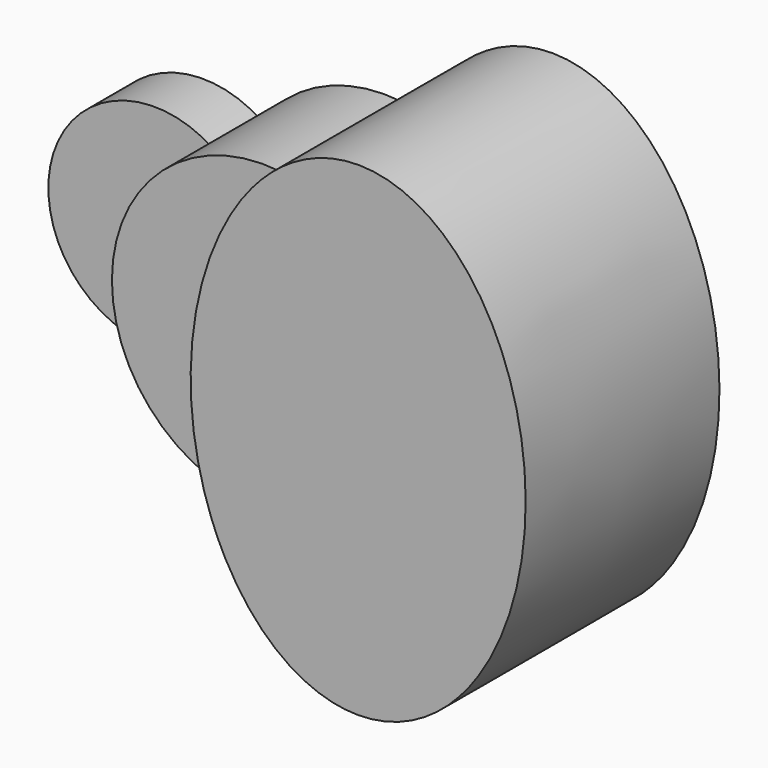
from build123d import *

# Parameters (mm, degrees)
F1_DEPTH = 25.4
F2_DEPTH = 63.5
F3_DEPTH = 101.6


with BuildPart() as f1:
    # F0 (on Front) → F1 (new body)
    with BuildSketch(Plane.XZ):
        with BuildLine():
            ThreePointArc((-51.59375, -37.0180356169), (-63.5, 0), (-51.59375, 37.0180356169))
            ThreePointArc((-51.59375, 37.0180356169), (-120.65, 0), (-51.59375, -37.0180356169))
        make_face()
    extrude(amount=F1_DEPTH)

    # F0 (on Front) → F2 (join)
    with BuildSketch(Plane.XZ):
        with BuildLine():
            ThreePointArc((-51.59375, -37.0180356169), (-37.0237934934, -21.0006510316), (-31.75, 0))
            ThreePointArc((-31.75, 0), (-37.0237934934, 21.0006510316), (-51.59375, 37.0180356169))
            ThreePointArc((-51.59375, 37.0180356169), (-63.5, 0), (-51.59375, -37.0180356169))
        make_face()
        with BuildLine():
            ThreePointArc((-51.59375, 37.0180356169), (-37.0237934934, 21.0006510316), (-31.75, 0))
            ThreePointArc((-31.75, 0), (-37.0237934934, -21.0006510316), (-51.59375, -37.0180356169))
            ThreePointArc((-51.59375, -37.0180356169), (-22.310398395, -59.451628434), (14.5021394114, -61.8218242411))
            add(Edge.make_bspline(
                [(0, 0), (0, -34.4686397294), (14.5021394114, -61.8218242411)],
                knots=[4.7123889804, 4.7123889804, 4.7123889804, 5.3665359428, 5.3665359428, 5.3665359428], degree=2, weights=[1, 0.946986609, 1]))
            add(Edge.make_bspline(
                [(14.5021394114, 61.8218242411), (0, 34.4686397294), (0, 0)],
                knots=[4.058242018, 4.058242018, 4.058242018, 4.7123889804, 4.7123889804, 4.7123889804], degree=2, weights=[1, 0.946986609, 1]))
            ThreePointArc((14.5021394114, 61.8218242411), (-22.310398395, 59.451628434), (-51.59375, 37.0180356169))
        make_face()
    extrude(amount=F2_DEPTH)


with BuildPart() as f3:
    # F0 (on Front) → F3 (new body)
    with BuildSketch(Plane.XZ):
        with BuildLine():
            ThreePointArc((63.5, 0), (49.7651276127, 39.4421357648), (14.5021394114, 61.8218242411))
            add(Edge.make_bspline(
                [(14.5021394114, 61.8218242411), (0, 34.4686397294), (0, 0)],
                knots=[4.058242018, 4.058242018, 4.058242018, 4.7123889804, 4.7123889804, 4.7123889804], degree=2, weights=[1, 0.946986609, 1]))
            add(Edge.make_bspline(
                [(0, 0), (0, -34.4686397294), (14.5021394114, -61.8218242411)],
                knots=[4.7123889804, 4.7123889804, 4.7123889804, 5.3665359428, 5.3665359428, 5.3665359428], degree=2, weights=[1, 0.946986609, 1]))
            ThreePointArc((14.5021394114, -61.8218242411), (49.7651276127, -39.4421357648), (63.5, 0))
        make_face()
        with BuildLine():
            add(Edge.make_bspline(
                [(14.5021394114, -61.8218242411), (140.5023300358, -299.4768601559), (140.5023300358, 0), (140.5023300358, 299.4768601559), (14.5021394114, 61.8218242411)],
                knots=[5.3665359428, 5.3665359428, 5.3665359428, 7.853981634, 7.853981634, 10.3414273252, 10.3414273252, 10.3414273252], degree=2, weights=[1, 0.321273034, 1, 0.321273034, 1]))
            ThreePointArc((14.5021394114, 61.8218242411), (49.7651276127, 39.4421357648), (63.5, 0))
            ThreePointArc((63.5, 0), (49.7651276127, -39.4421357648), (14.5021394114, -61.8218242411))
        make_face()
    extrude(amount=F3_DEPTH)


solid = Compound([f1.part, f3.part])
